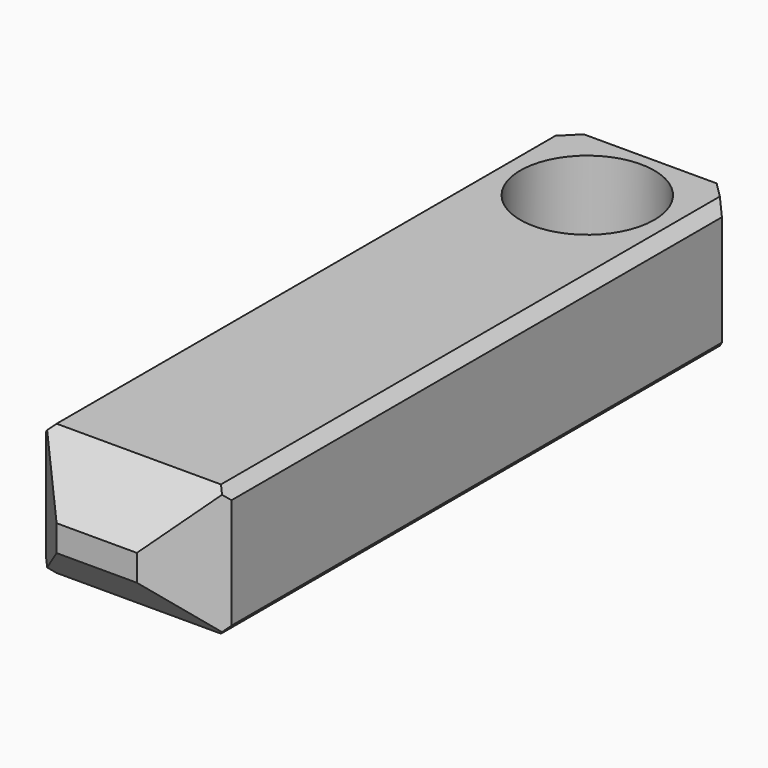
from build123d import *

# Parameters (mm, degrees)
F0_W     = 35.2719388902
F0_H     = 81.6293433309
F1_DEPTH = 25
F2_R     = 12.7443419247
F3_DEPTH = 25
F4_DEPTH = 50
F5_SIZE  = 5
F6_SIZE  = 2
F7_SIZE  = 10


with BuildPart() as f1:
    # F0 (on Top) → F1 (new body)
    with BuildSketch(Plane.XY):
        Rectangle(F0_W, F0_H)
    extrude(amount=F1_DEPTH)

    # F2 (on Top) → F3 (cut)
    with BuildSketch(Plane.XY):
        with Locations((0, 25.8420929313)):
            Circle(F2_R)
    extrude(amount=F3_DEPTH, mode=Mode.SUBTRACT)

    # F4 (add): a face of the model
    f4_faces = [f1.faces().sort_by_distance(p)[0] for p in [
        (0, -40.8146716654, 12.5),
    ]]
    extrude(f4_faces, amount=F4_DEPTH)

    # F5
    f5_edges = [f1.edges().sort_by_distance(p)[0] for p in [
        (-17.635969, 40.814672, 12.5),
        (17.635969, 40.814672, 12.5),
    ]]
    chamfer(f5_edges, length=F5_SIZE)

    # F6
    f6_edges = [f1.edges().sort_by_distance(p)[0] for p in [
        (17.635969, -27.5, 25),
        (-17.635969, -27.5, 25),
        (17.635969, -27.5, 0),
        (-17.635969, -27.5, 0),
    ]]
    chamfer(f6_edges, length=F6_SIZE)

    # F7 (call 1 of 4: OpenCascade refuses the feature's edges together)
    f7_edges = [f1.edges().sort_by_distance(p)[0] for p in [
        (0, -90.814672, 25),
    ]]
    chamfer(f7_edges, length=F7_SIZE)

    # F7#2 (call 2 of 4)
    f7_2_edges = [f1.edges().sort_by_distance(p)[0] for p in [
        (17.635969, -90.814672, 12.5),
    ]]
    chamfer(f7_2_edges, length=F7_SIZE)

    # F7#3 (call 3 of 4)
    f7_3_edges = [f1.edges().sort_by_distance(p)[0] for p in [
        (0, -90.814672, 0),
    ]]
    chamfer(f7_3_edges, length=F7_SIZE)

    # F7#4 (call 4 of 4)
    f7_4_edges = [f1.edges().sort_by_distance(p)[0] for p in [
        (-17.635969, -90.814672, 12.5),
    ]]
    chamfer(f7_4_edges, length=F7_SIZE)


solid = f1.part
